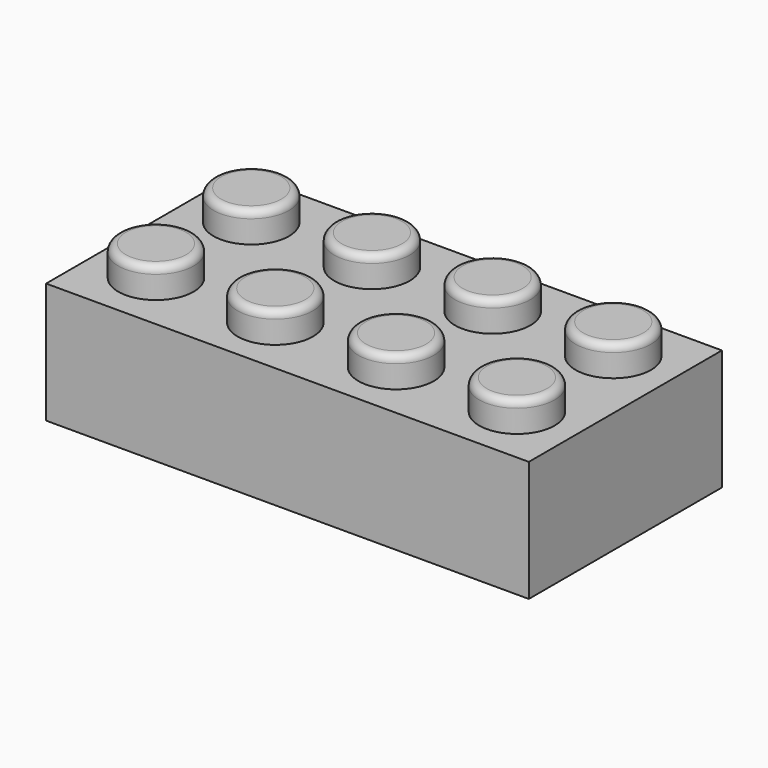
from build123d import *

# Parameters (mm, degrees)
F0_W     = 32
F0_H     = 16
F1_DEPTH = 8
F3_T     = -1.5
F4_R     = 2.5
F5_DEPTH = 2
F6_R     = 0.5


with BuildPart() as f1:
    # F0 (on Top) → F1 (new body)
    with BuildSketch(Plane.XY):
        with Locations((-26.919962, -38.296238)):
            Rectangle(F0_W, F0_H)
    extrude(amount=F1_DEPTH)

    # F3
    f3_openings = [f1.faces().sort_by_distance(p)[0] for p in [
        (-26.919962, -38.296238, 0),
    ]]
    offset(amount=F3_T, openings=f3_openings)

    # F4 (on face) → F5 (join)
    with BuildSketch(Plane.XY.offset(8)):
        with Locations((-38.881334, -42.23888)):
            Circle(F4_R)
        with Locations((-30.919198, -42.302713)):
            Circle(F4_R)
        with Locations((-22.919174, -42.295676)):
            Circle(F4_R)
        with Locations((-14.915855, -42.28716)):
            Circle(F4_R)
        with Locations((-38.919962, -34.296238)):
            Circle(F4_R)
        with Locations((-30.91382, -34.302659)):
            Circle(F4_R)
        with Locations((-22.915579, -34.296975)):
            Circle(F4_R)
        with Locations((-14.920096, -34.299079)):
            Circle(F4_R)
    extrude(amount=F5_DEPTH)

    # F6
    f6_edges = [f1.edges().sort_by_distance(p)[0] for p in [
        (-41.381334, -42.23888, 10),
        (-41.419962, -34.296238, 10),
        (-33.419198, -42.302713, 10),
        (-33.41382, -34.302659, 10),
        (-25.419174, -42.295676, 10),
        (-25.415579, -34.296975, 10),
        (-17.415855, -42.28716, 10),
        (-17.420096, -34.299079, 10),
    ]]
    fillet(f6_edges, radius=F6_R)


solid = f1.part
